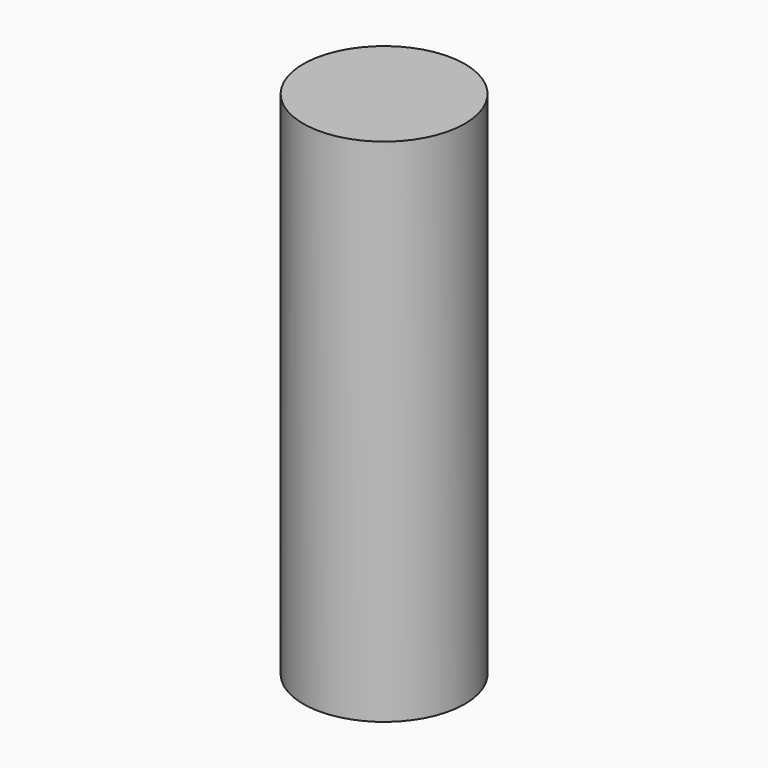
from build123d import *

# Parameters (mm, degrees)
F0_R     = 12.0559653511
F1_DEPTH = 101.6
F3_DEPTH = 76.2


with BuildPart() as f1:
    # F0 (on Top) → F1 (new body)
    with BuildSketch(Plane.XY):
        Circle(F0_R)
    extrude(amount=F1_DEPTH)


with BuildPart() as f3:
    # F0 (on Top) → F3 (new body)
    with BuildSketch(Plane.XY):
        Circle(F0_R)
    extrude(amount=F3_DEPTH)


solid = f3.part
